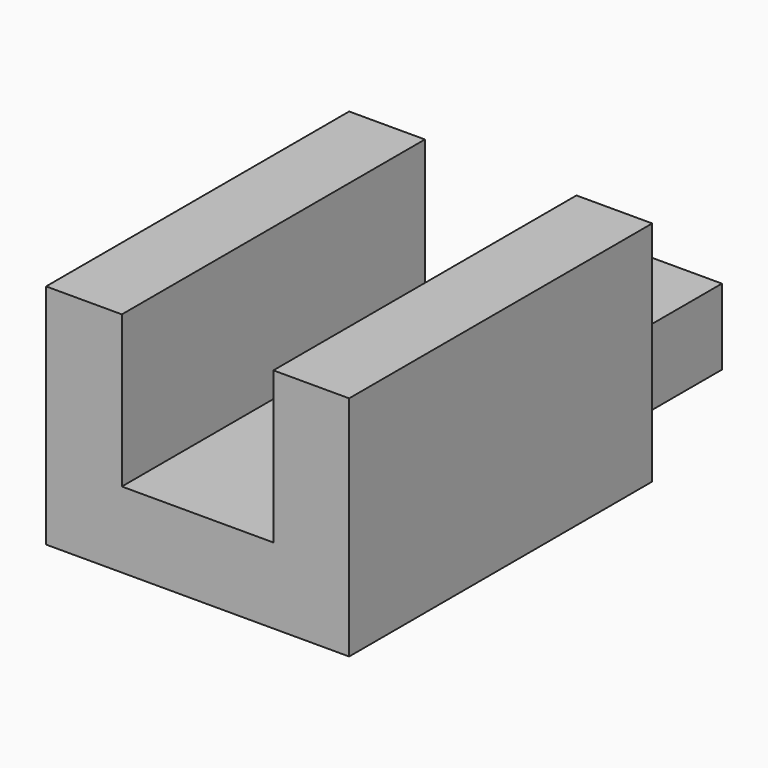
from build123d import *

# Parameters (mm, degrees)
F1_DEPTH = 25
F2_W     = 10
F2_H     = 12
F2_W_2   = 4
F2_H_2   = 6
F3_DEPTH = 5


with BuildPart() as f1:
    # F0 (on Front) → F1 (new body)
    with BuildSketch(Plane.XZ):
        Polygon((0, 15), (0, 0), (20, 0), (20, 15), (15, 15), (15, 5), (5, 5), (5, 15), align=None)
    extrude(amount=F1_DEPTH)

    # F2 (on Top) → F3 (join)
    with BuildSketch(Plane.XY):
        with Locations((10, 6)):
            Rectangle(F2_W, F2_H)
        with Locations((10, 6)):
            Rectangle(F2_W_2, F2_H_2, mode=Mode.SUBTRACT)
    extrude(amount=F3_DEPTH)


solid = f1.part
